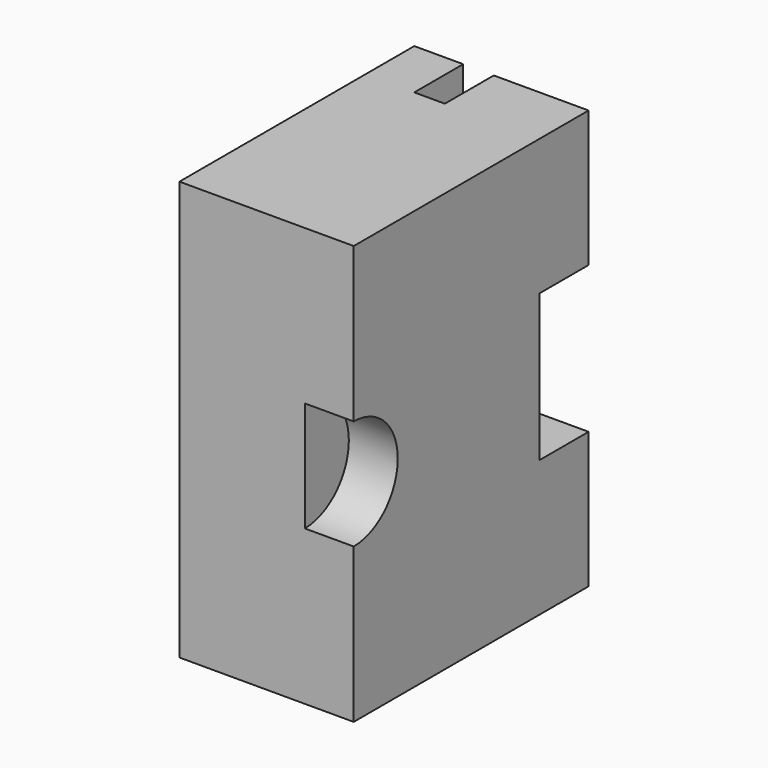
from build123d import *

# Parameters (mm, degrees)
CYLINDER020_R     = 4.5
CYLINDER020_DEPTH = 4
BOX014_W          = 11.125
BOX014_H          = 6
BOX014_DEPTH      = 4
BOX015_W          = 11.125
BOX015_H          = 6
BOX015_DEPTH      = 4
BOX021_W          = 11.125
BOX021_H          = 6
BOX021_DEPTH      = 7.75
BOX003_W          = 14.25
BOX003_H          = 19
BOX003_DEPTH      = 34.25
BOX022_W          = 11.125
BOX022_H          = 6
BOX022_DEPTH      = 7.75


with BuildPart() as cylinder020:
    # Cylinder020 → Cylinder020 (new body)
    with BuildSketch(Plane(origin=(6.25, 18.6, 15.125), x_dir=(0, 0, -1), z_dir=(1, 0, 0))):
        Circle(CYLINDER020_R)
    extrude(amount=CYLINDER020_DEPTH)


with BuildPart() as base_holder:
    # Box014 → Box014 (new body)
    with BuildSketch(Plane(origin=(0, 36.6, -2), x_dir=(0, 0, 1), z_dir=(-1, 0, 0))):
        with Locations((5.5625, 3)):
            Rectangle(BOX014_W, BOX014_H)
    extrude(amount=BOX014_DEPTH)


with BuildPart() as base_holder001:
    # Box015 → Box015 (new body)
    with BuildSketch(Plane(origin=(-4, 36.6, 32.25), x_dir=(0, 0, -1), z_dir=(1, 0, 0))):
        with Locations((5.5625, 3)):
            Rectangle(BOX015_W, BOX015_H)
    extrude(amount=BOX015_DEPTH)


with BuildPart() as base_holder002:
    # Box021 → Box021 (new body)
    with BuildSketch(Plane(origin=(2.5, 36.6, 32.25), x_dir=(0, 0, -1), z_dir=(1, 0, 0))):
        with Locations((5.5625, 3)):
            Rectangle(BOX021_W, BOX021_H)
    extrude(amount=BOX021_DEPTH)


with BuildPart() as f_3d_print_syringe_holder:
    # Box003 → Box003 (new body)
    with BuildSketch(Plane(origin=(-4, 18.6, -2), x_dir=(1, 0, 0), z_dir=(0, 0, 1))):
        with Locations((7.125, 9.5)):
            Rectangle(BOX003_W, BOX003_H)
    extrude(amount=BOX003_DEPTH)


with BuildPart() as cut007:
    # Box022 → Box022 (new body)
    with BuildSketch(Plane(origin=(2.5, 36.6, 9.125), x_dir=(0, 0, -1), z_dir=(1, 0, 0))):
        with Locations((5.5625, 3)):
            Rectangle(BOX022_W, BOX022_H)
    extrude(amount=BOX022_DEPTH)

    # Fusion010: union base_holder, base_holder001, base_holder002, 3D_print_syringe_holder
    add(base_holder.part)
    add(base_holder001.part)
    add(base_holder002.part)
    add(f_3d_print_syringe_holder.part)

    # Cut007: cut Cylinder020
    add(cylinder020.part, mode=Mode.SUBTRACT)


solid = cut007.part
